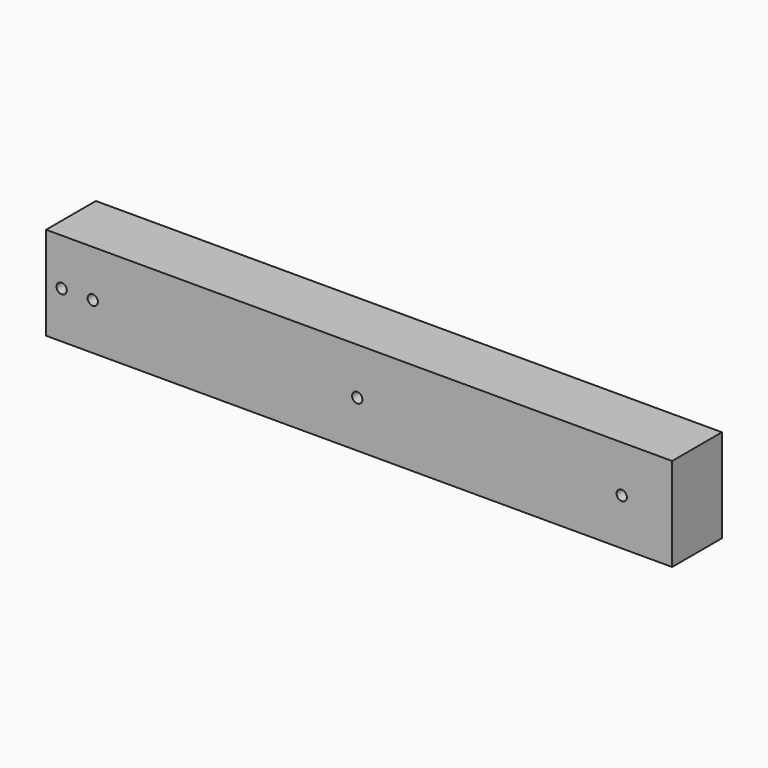
from build123d import *

# Parameters (mm, degrees)
F0_W     = 5
F0_H     = 5
F1_DEPTH = 200
F3_DEPTH = 1.2
F5_DEPTH = 25
F6_D     = 3.3


with BuildPart() as f1:
    # F0 (on Right) → F1 (new body)
    with BuildSketch(Plane.YZ):
        Polygon((0, 30), (0, 15), (6.1031254008, 15), (10, 15), (10, 25), (15, 25), (20, 25), (20, 30), align=None)
        with Locations((17.5, 22.5)):
            Rectangle(F0_W, F0_H)
        with Locations((17.5, 7.5)):
            Rectangle(F0_W, F0_H)
        Polygon((0, 15), (0, 0), (20, 0), (20, 5), (15, 5), (10, 5), (10, 15), (6.1031254008, 15), align=None)
    extrude(amount=F1_DEPTH)

    # F2 (on face) → F3 (join)
    with BuildSketch(Plane.YZ.offset(200)):
        Polygon((20, 30), (0, 30), (0, 0), (20, 0), (20, 10), (15, 10), (15, 5), (10, 5), (10, 25), (15, 25), (15, 20), (20, 20), align=None)
        Polygon((20, 10), (20, 20), (15, 20), (15, 25), (10, 25), (10, 5), (15, 5), (15, 10), align=None)
    extrude(amount=F3_DEPTH)

    # F4 (on face) → F5 (cut)
    with BuildSketch(Plane(origin=(0, 10, 0), x_dir=(-1, 0, 0), z_dir=(0, 1, 0))):
        with BuildLine():
            ThreePointArc((-6.65, 15), (-5, 13.35), (-3.35, 15))
            Line((-3.35, 15), (-5, 15))
            Line((-5, 15), (-6.65, 15))
        make_face()
        with BuildLine():
            Line((-5, 15), (-3.35, 15))
            ThreePointArc((-3.35, 15), (-5, 16.65), (-6.65, 15))
            Line((-6.65, 15), (-5, 15))
        make_face()
    extrude(amount=-F5_DEPTH, mode=Mode.SUBTRACT)

    # F6 (through all)
    with Locations(Plane(origin=(0, 10, 0), x_dir=(-1, 0, 0), z_dir=(0, 1, 0))):
        with Locations((-15, 15), (-100, 15), (-185, 15)):
            Hole(F6_D / 2)


solid = f1.part
